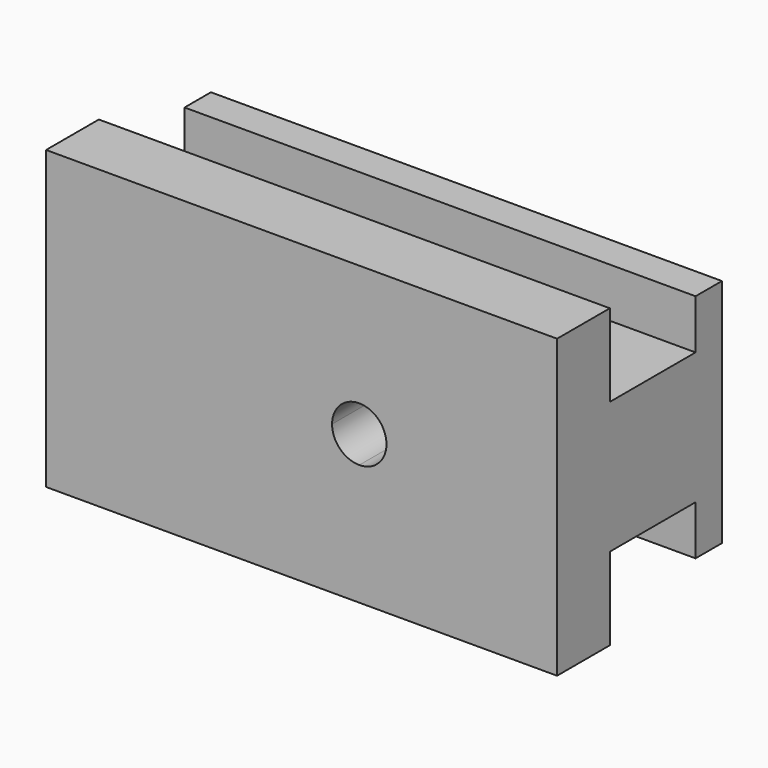
from build123d import *

# Parameters (mm, degrees)
F1_DEPTH = 38
F3_DEPTH = 25
F4_DEPTH = 7


with BuildPart() as f1:
    # F0 (on Right) → F1 (new body)
    with BuildSketch(Plane.YZ):
        Polygon((15, 19), (15, 20), (15, 24), (11, 24), (11, 15), (11, 6), (15, 6), (15, 10), (15, 11), (21.5, 11), (21.5, 8), (23.5, 8), (23.5, 15), (23.5, 22), (21.5, 22), (21.5, 19), align=None)
    extrude(amount=F1_DEPTH)

    # F2 (on face) → F3 (cut)
    with BuildSketch(Plane(origin=(0, 23.5, 0), x_dir=(-1, 0, 0), z_dir=(0, 1, 0))):
        with BuildLine():
            ThreePointArc((-17.35, 15), (-17.833273811, 16.166726189), (-19, 16.65))
            Line((-19, 16.65), (-19, 13.35))
            ThreePointArc((-19, 13.35), (-17.833273811, 13.833273811), (-17.35, 15))
        make_face()
        with BuildLine():
            Line((-19, 13.35), (-19, 16.65))
            ThreePointArc((-19, 16.65), (-20.65, 15), (-19, 13.35))
        make_face()
    extrude(amount=-F3_DEPTH, mode=Mode.SUBTRACT)

    # F4 (cut): a face of the model
    f4_faces = [f1.faces().sort_by_distance(p)[0] for p in [
        (38, 16.5460526316, 15),
    ]]
    extrude(f4_faces, amount=-F4_DEPTH, mode=Mode.SUBTRACT)


solid = f1.part
